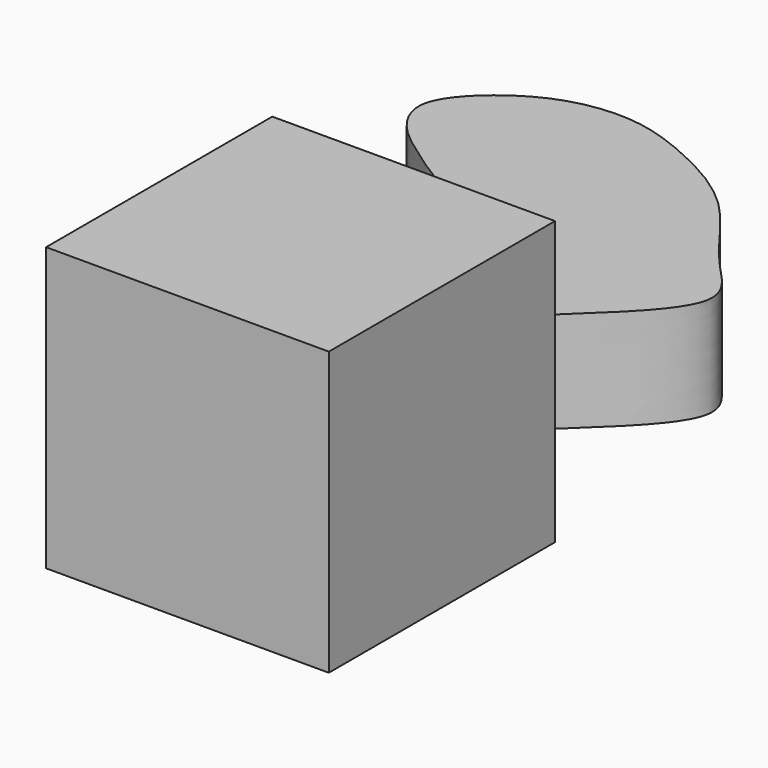
from build123d import *

# Parameters (mm, degrees)
F0_W     = 50
F0_H     = 50
F1_DEPTH = 50
F3_DEPTH = 17.8


with BuildPart() as f1:
    # F0 (on Top) → F1 (new body)
    with BuildSketch(Plane.XY):
        with Locations((25, -25)):
            Rectangle(F0_W, F0_H)
    extrude(amount=F1_DEPTH)


with BuildPart() as f3:
    # F2 (on Top) → F3 (new body)
    with BuildSketch(Plane.XY):
        with BuildLine():
            add(Edge.make_bspline(
                [(-11.112802662, 7.2541860864), (-14.4185418195, 7.7084515339), (-20.9142121492, 11.2414431945), (-26.5493579768, 19.6178411178), (-22.8859313295, 29.9669490763), (-15.4397255813, 35.2344880726), (-7.9898531853, 41.1099969043), (-1.2033210129, 44.0025586031), (-9.2159567112, 47.5581048309), (-15.941025092, 52.2046191515), (-22.9474902914, 57.2767322968), (-26.2827371424, 64.7299200481), (-19.2457108688, 72.7602588486), (-10.2148105665, 77.9707915649), (0.2775713366, 79.1665287203), (10.1831525846, 76.4418672157), (26.4717351651, 68.303185111), (35.1126840298, 53.2044422784), (47.8338520583, 43.2518615307), (27.3634991572, 25.9217750659), (18.4790466454, 14.9989695473), (0.0972653327, 9.0710165894), (-7.6644900371, 6.7803285909), (-11.112802662, 7.2541860864)],
                knots=[0, 0, 0, 0, 0.0462461585, 0.0899952194, 0.1346846439, 0.1782258638, 0.2241080489, 0.2550347252, 0.2902209581, 0.3337252031, 0.3757207102, 0.413290304, 0.4576107472, 0.504501043, 0.5498477771, 0.5957088896, 0.6559635657, 0.7169124164, 0.7659653469, 0.8332801175, 0.8903006, 0.9517592876, 1, 1, 1, 1], degree=3))
        make_face()
    extrude(amount=F3_DEPTH)


solid = Compound([f1.part, f3.part])
